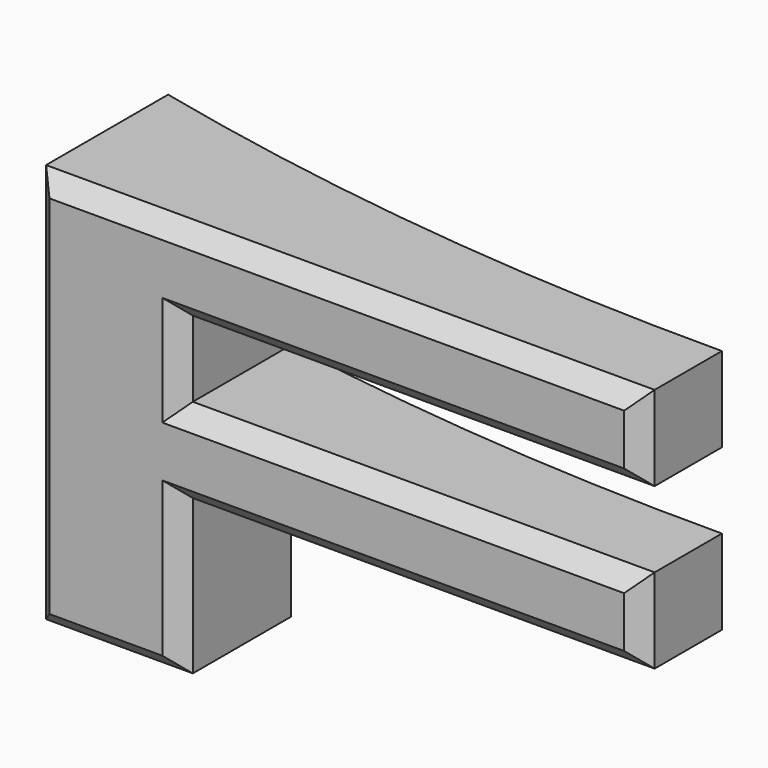
from build123d import *

# Parameters (mm, degrees)
F1_DEPTH = 25.4
F2_SIZE  = 2.54
F3_SIZE  = 2.54
F4_T     = -1.27
F6_DEPTH = 38.1
F7_R     = 1.8028918562
F7_R_2   = 1.1064766703
F7_R_3   = 1.1353765366
F7_R_4   = 1.2323804773
F7_R_5   = 1.153275907
F8_DEPTH = 12.7


with BuildPart() as f1:
    # F0 (on Front) → F1 (new body)
    with BuildSketch(Plane.XZ):
        Polygon((44.08133775, 31.9471210241), (-47.1148937941, 31.9471210241), (-47.1148937941, -27.9655810446), (-25.1216236502, -27.9655810446), (-25.1216236502, -4.8347273842), (44.08133775, -4.8347273842), (44.08133775, 7.8682824969), (-25.1216236502, 7.8682824969), (-25.1216236502, 19.2441120744), (44.08133775, 19.2441120744), align=None)
    extrude(amount=F1_DEPTH)

    # F2
    f2_edges = [f1.edges().sort_by_distance(p)[0] for p in [
        (-1.516778, -25.4, 31.947121),
    ]]
    chamfer(f2_edges, length=F2_SIZE)

    # F3
    f3_edges = [f1.edges().sort_by_distance(p)[0] for p in [
        (44.081338, -25.4, 24.325617),
        (9.479857, -25.4, 19.244112),
        (-25.121624, -25.4, 13.556197),
        (9.479857, -25.4, 7.868282),
        (44.081338, -25.4, 1.516778),
        (9.479857, -25.4, -4.834727),
        (-25.121624, -25.4, -16.400154),
        (-36.118259, -25.4, -27.965581),
        (-47.114894, -25.4, 0.72077),
    ]]
    chamfer(f3_edges, length=F3_SIZE)

    # F4
    f4_openings = [f1.faces().sort_by_distance(p)[0] for p in [
        (-1.516778, 0, 30.855962),
    ]]
    offset(amount=F4_T, openings=f4_openings, kind=Kind.INTERSECTION)

    # F5 (on face) → F6 (cut, symmetric)
    with BuildSketch(Plane(origin=(0, 0, -4.8347273842), x_dir=(1, 0, 0), z_dir=(0, 0, -1))):
        with BuildLine():
            Line((44.08133775, 0), (44.08133775, 10.256701149))
            ThreePointArc((44.08133775, 10.256701149), (-1.820328138, 7.8273301251), (-47.1148937941, 0))
            Line((-47.1148937941, 0), (44.08133775, 0))
        make_face()
    extrude(amount=F6_DEPTH, both=True, mode=Mode.SUBTRACT)

    # F7 (on face) → F8 (join)
    with BuildSketch(Plane(origin=(0, -24.13, 0), x_dir=(-1, 0, 0), z_dir=(0, 1, 0))):
        with Locations((-36.7269202571, 25.4060197622)):
            Circle(F7_R)
        with Locations((-36.7269202571, 25.4060197622)):
            Circle(F7_R_2, mode=Mode.SUBTRACT)
        with Locations((0, 25.4060197622)):
            Circle(F7_R)
        with Locations((0, 25.4060197622)):
            Circle(F7_R_3, mode=Mode.SUBTRACT)
        with Locations((36.6482846439, 25.1216236502)):
            Circle(F7_R)
        with Locations((36.6482846439, 25.1216236502)):
            Circle(F7_R_4, mode=Mode.SUBTRACT)
        with Locations((36.6482846439, -20.2868953347)):
            Circle(F7_R)
        with Locations((36.6482846439, -20.2868953347)):
            Circle(F7_R_5, mode=Mode.SUBTRACT)
    extrude(amount=F8_DEPTH)


solid = f1.part
